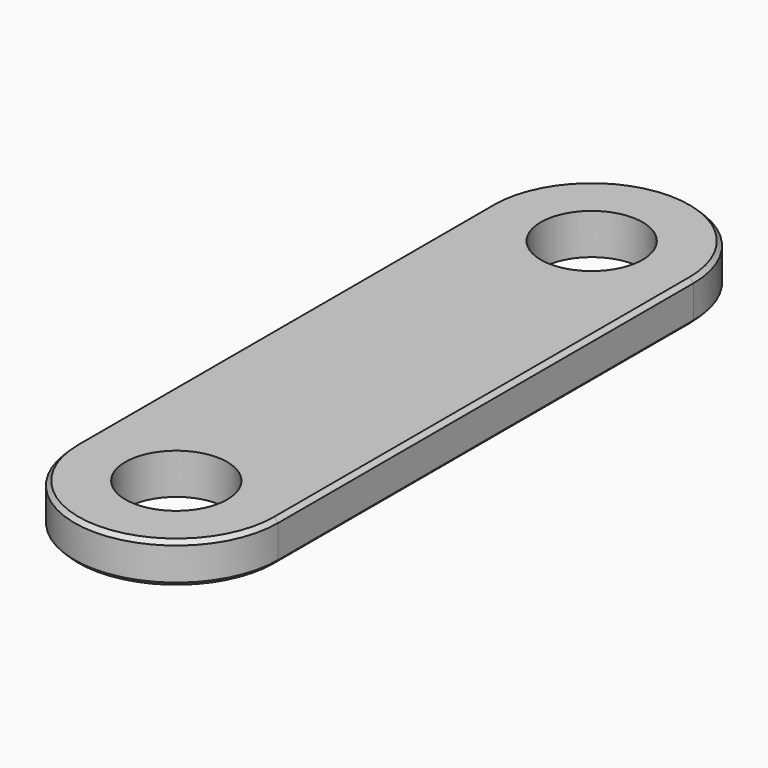
from build123d import *

# Parameters (mm, degrees)
F1_DEPTH = 20
F2_SIZE2 = 2
F2_SIZE  = 2


with BuildPart() as f1:
    # F0 (on Top) → F1 (new body)
    with BuildSketch(Plane.XY):
        with BuildLine():
            ThreePointArc((-50, 127.5), (0, 77.5), (50, 127.5))
            Line((50, 127.5), (25, 127.5))
            ThreePointArc((25, 127.5), (0, 102.5), (-25, 127.5))
            Line((-25, 127.5), (-50, 127.5))
        make_face()
        with BuildLine():
            Line((50, -127.5), (50, 127.5))
            ThreePointArc((50, 127.5), (0, 77.5), (-50, 127.5))
            Line((-50, 127.5), (-50, -127.5))
            ThreePointArc((-50, -127.5), (0, -77.5), (50, -127.5))
        make_face()
        with BuildLine():
            Line((25, 127.5), (50, 127.5))
            ThreePointArc((50, 127.5), (0, 177.5), (-50, 127.5))
            Line((-50, 127.5), (-25, 127.5))
            ThreePointArc((-25, 127.5), (0, 152.5), (25, 127.5))
        make_face()
        with BuildLine():
            ThreePointArc((-50, -127.5), (0, -177.5), (50, -127.5))
            Line((50, -127.5), (25, -127.5))
            ThreePointArc((25, -127.5), (0, -152.5), (-25, -127.5))
            Line((-25, -127.5), (-50, -127.5))
        make_face()
        with BuildLine():
            Line((25, -127.5), (50, -127.5))
            ThreePointArc((50, -127.5), (0, -77.5), (-50, -127.5))
            Line((-50, -127.5), (-25, -127.5))
            ThreePointArc((-25, -127.5), (0, -102.5), (25, -127.5))
        make_face()
    extrude(amount=F1_DEPTH)

    # F2
    f2_edges = [f1.edges().sort_by_distance(p)[0] for p in [
        (-50, 0, 20),
        (50, 0, 20),
        (-50, -127.5, 10),
        (-50, 0, 0),
        (-50, 127.5, 10),
        (50, 0, 0),
    ]]
    chamfer(f2_edges, length=F2_SIZE, length2=F2_SIZE2)


solid = f1.part
